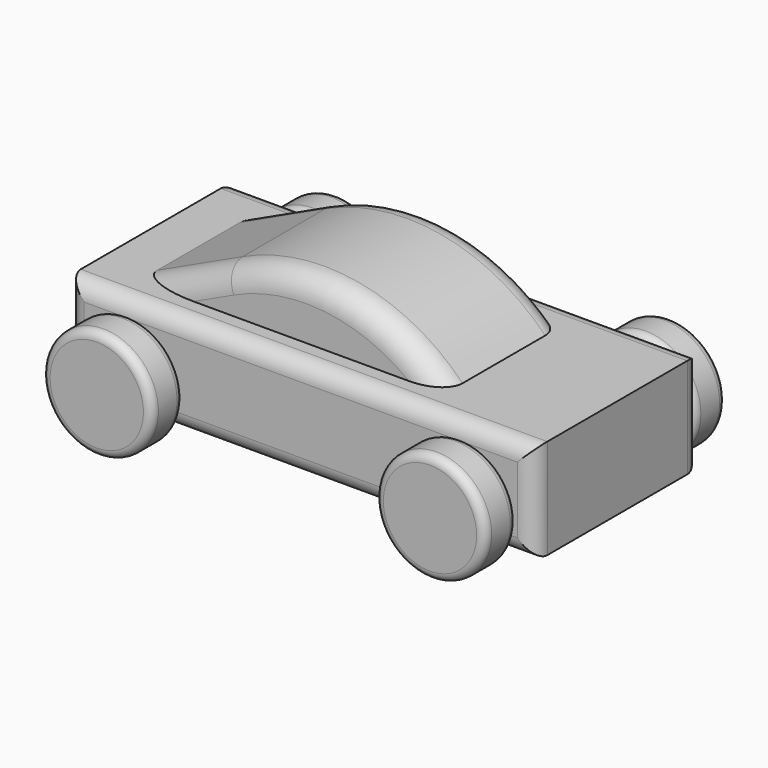
from build123d import *

# Parameters (mm, degrees)
F1_W      = 177.8
F1_H      = 38.1
F2_DEPTH  = 39.6875
F4_R      = 20.955
F5_DEPTH  = 15.24
F6_R      = 3.175
F7_R      = 6.35
F11_DEPTH = 28.575
F12_R     = 8.89


with BuildPart() as f2:
    # F1 (on Front) → F2 (new body, symmetric)
    with BuildSketch(Plane.XZ):
        Rectangle(F1_W, F1_H)
    extrude(amount=F2_DEPTH, both=True)

    # F7
    f7_edges = [f2.edges().sort_by_distance(p)[0] for p in [
        (0, -39.6875, 19.05),
        (-88.9, -39.6875, 0),
        (0, -39.6875, -19.05),
        (88.9, -39.6875, 0),
        (0, 39.6875, 19.05),
        (-88.9, 39.6875, 0),
        (0, 39.6875, -19.05),
        (88.9, 39.6875, 0),
    ]]
    fillet(f7_edges, radius=F7_R)


with BuildPart() as f5:
    # F4 (on offset) → F5 (new body)
    with BuildSketch(Plane.XZ.offset(42.2275)):
        with Locations((63.5, -5.08)):
            Circle(F4_R)
    extrude(amount=F5_DEPTH)

    # F6
    f6_edges = [f5.edges().sort_by_distance(p)[0] for p in [
        (42.545, -57.4675, -5.08),
        (42.545, -42.2275, -5.08),
    ]]
    fillet(f6_edges, radius=F6_R)


with BuildPart() as f8_1:
    # F8: instance of F5
    add(f5.part.mirror(Plane.XZ))


with BuildPart() as f9_1:
    # F9: instance of F5
    add(f5.part.mirror(Plane.YZ))


with BuildPart() as f9_2:
    # F9: instance of F8_1
    add(f8_1.part.mirror(Plane.YZ))


with BuildPart() as f11:
    # F10 (on Front) → F11 (new body, symmetric)
    with BuildSketch(Plane.XZ):
        with BuildLine():
            Line((-38.1, 34.276004), (-70.752271, 19.05))
            Line((-70.752271, 19.05), (45.72, 19.05))
            ThreePointArc((45.72, 19.05), (6.231978, 39.996124), (-38.1, 34.276004))
        make_face()
    extrude(amount=F11_DEPTH, both=True)

    # F12
    f12_edges = [f11.edges().sort_by_distance(p)[0] for p in [
        (6.231978, -28.575, 39.996124),
        (6.231978, 28.575, 39.996124),
    ]]
    fillet(f12_edges, radius=F12_R)


solid = Compound([f2.part, f5.part, f8_1.part, f9_1.part, f9_2.part, f11.part])
